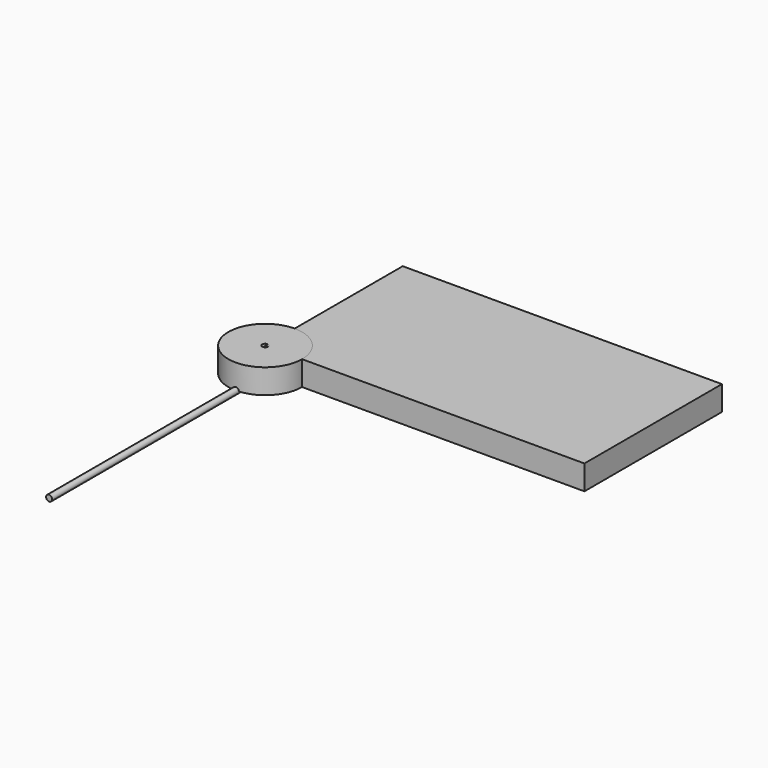
from build123d import *

# Parameters (mm, degrees)
F0_W     = 330.2
F0_H     = 177.8
F1_DEPTH = 25.4
F2_R     = 38.1
F2_R_2   = 3.175
F3_DEPTH = 25.4
F4_R     = 3.175
F5_DEPTH = 279.4
F6_W     = 25.4
F6_H     = 25.4
F7_DEPTH = 25.4
F8_R     = 3.175
F9_DEPTH = 139.701


with BuildPart() as f1:
    # F0 (on Top) → F1 (new body)
    with BuildSketch(Plane.XY):
        with Locations((165.1, 88.9)):
            Rectangle(F0_W, F0_H)
    extrude(amount=F1_DEPTH)

    # F6 (on Top) → F7 (join)
    with BuildSketch(Plane.XY):
        with Locations((63.5, 50.8)):
            Rectangle(F6_W, F6_H)
        with Locations((63.5, 127)):
            Rectangle(F6_W, F6_H)
        with Locations((266.7, 127)):
            Rectangle(F6_W, F6_H)
        with Locations((266.7, 50.8)):
            Rectangle(F6_W, F6_H)
    extrude(amount=-F7_DEPTH)

    # F8 (on face) → F9 (cut, through all)
    with BuildSketch(Plane.XZ.offset(-38.1)):
        with Locations((63.5, -12.7)):
            Circle(F8_R)
        with Locations((266.7, -12.7)):
            Circle(F8_R)
    extrude(amount=-F9_DEPTH, mode=Mode.SUBTRACT)


with BuildPart() as f3:
    # F2 (on Top) → F3 (new body)
    with BuildSketch(Plane.XY):
        Circle(F2_R)
        Circle(F2_R_2, mode=Mode.SUBTRACT)
    extrude(amount=F3_DEPTH)


with BuildPart() as f5:
    # F4 (on Front) → F5 (new body)
    with BuildSketch(Plane.XZ):
        Circle(F4_R)
    extrude(amount=F5_DEPTH)


solid = Compound([f1.part, f3.part, f5.part])
